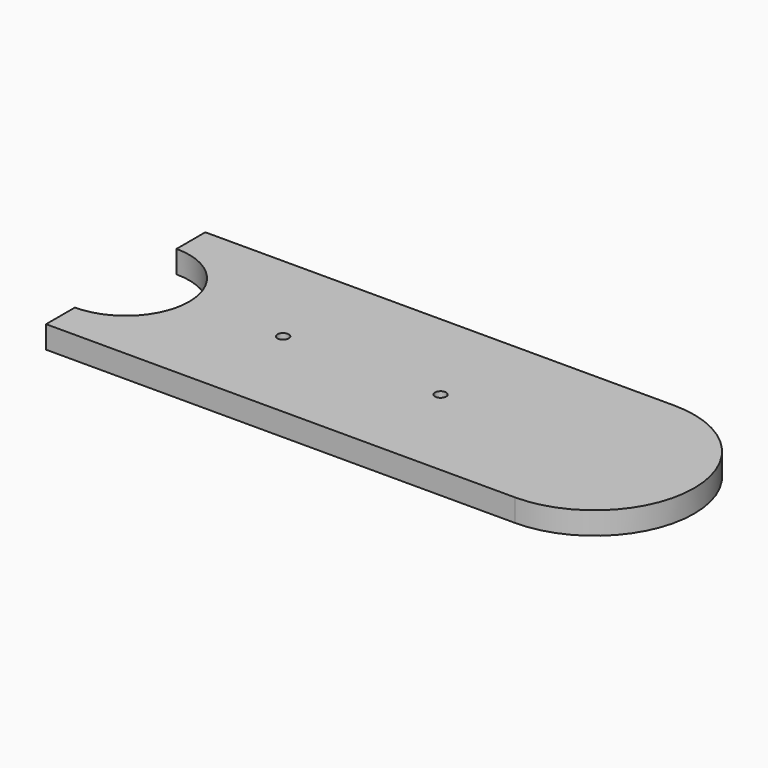
from build123d import *

# Parameters (mm, degrees)
CYLINDER022_R     = 1
CYLINDER022_DEPTH = 10
CYLINDER023_R     = 1
CYLINDER023_DEPTH = 10
CYLINDER021_R     = 11.3
CYLINDER021_DEPTH = 16
CYLINDER020_R     = 7.3
CYLINDER020_DEPTH = 15
CYLINDER007_R     = 7.3
CYLINDER007_DEPTH = 15
CYLINDER019_R     = 7.3
CYLINDER019_DEPTH = 52
PAD002_DEPTH      = 4


with BuildPart() as cilindro007:
    # Cylinder022 → Cylinder022 (new body)
    with BuildSketch(Plane(origin=(-28, 0, -4), x_dir=(1, 0, 0), z_dir=(0, 0, 1))):
        Circle(CYLINDER022_R)
    extrude(amount=CYLINDER022_DEPTH)


with BuildPart() as fusion001013:
    # Cylinder023 → Cylinder023 (new body)
    with BuildSketch(Plane(origin=(-56, 0, -4), x_dir=(1, 0, 0), z_dir=(0, 0, 1))):
        Circle(CYLINDER023_R)
    extrude(amount=CYLINDER023_DEPTH)

    # Fusion001013: union Cilindro007
    add(cilindro007.part)


with BuildPart() as fusion001013_1:
    # Fusion001013 placement: moved
    add(fusion001013.part.moved(Location((0, 0, 27))))


with BuildPart() as eje004:
    # Cylinder021 → Cylinder021 (new body)
    with BuildSketch(Plane.XY.offset(15)):
        Circle(CYLINDER021_R)
    extrude(amount=CYLINDER021_DEPTH)


with BuildPart() as eje003:
    # Cylinder020 → Cylinder020 (new body)
    with BuildSketch(Plane(origin=(-28, 0, 13), x_dir=(1, 0, 0), z_dir=(0, 0, 1))):
        Circle(CYLINDER020_R)
    extrude(amount=CYLINDER020_DEPTH)


with BuildPart() as fusion001011:
    # Cylinder007 → Cylinder007 (new body)
    with BuildSketch(Plane(origin=(-56, 0, 13), x_dir=(1, 0, 0), z_dir=(0, 0, 1))):
        Circle(CYLINDER007_R)
    extrude(amount=CYLINDER007_DEPTH)

    # Fusion001011: union Eje003
    add(eje003.part)


with BuildPart() as eje001:
    # Cylinder019 → Cylinder019 (new body)
    with BuildSketch(Plane(origin=(-84, 0, -24), x_dir=(1, 0, 0), z_dir=(0, 0, 1))):
        Circle(CYLINDER019_R)
    extrude(amount=CYLINDER019_DEPTH)


with BuildPart() as cut010002:
    # Sketch004 → Pad002 (new body)
    with BuildSketch(Plane.XY):
        with BuildLine():
            Line((0, 17.7), (-83.4, 17.7))
            ThreePointArc((-83.4, 17.7), (-101.1, 0), (-83.4, -17.7))
            Line((0, -17.7), (-83.4, -17.7))
            Line((0, 17.7), (0, -17.7))
        make_face()
    extrude(amount=PAD002_DEPTH)


with BuildPart() as cut010002_1:
    # Body005 placement: moved
    add(cut010002.part.moved(Location((0, 0, 26))))

    # Cut: cut Eje001
    add(eje001.part, mode=Mode.SUBTRACT)

    # Cut026: cut Fusion001011
    add(fusion001011.part, mode=Mode.SUBTRACT)

    # Cut027: cut Eje004
    add(eje004.part, mode=Mode.SUBTRACT)

    # Cut010002: cut Fusion001013
    add(fusion001013_1.part, mode=Mode.SUBTRACT)


with BuildPart() as obj1:
    # Part__Mirroring011: instance of Cut010002
    add(cut010002_1.part.mirror(Plane(origin=(0, 0, 0), x_dir=(0, -1, 0), z_dir=(1, 0, 0))))


solid = obj1.part
